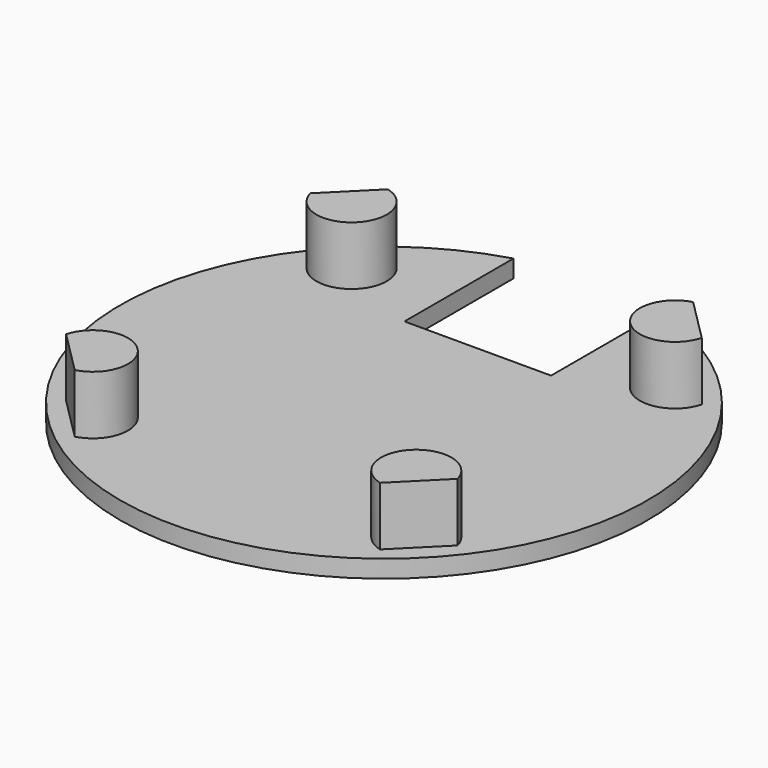
from build123d import *

# Parameters (mm, degrees)
F0_R     = 45
F1_DEPTH = 3
F3_DEPTH = 25
F4_DEPTH = 10
F5_DEPTH = 1


with BuildPart() as f1:
    # F0 (on Top) → F1 (new body)
    with BuildSketch(Plane.XY):
        Circle(F0_R)
    extrude(amount=F1_DEPTH)

    # F2 (on face) → F3 (cut)
    with BuildSketch(Plane.XY.offset(3)):
        with BuildLine():
            Line((12.5, 70), (-12.5, 70))
            Line((-12.5, 70), (-12.5, 43.229041))
            ThreePointArc((-12.5, 43.229041), (0, 45), (12.5, 43.229041))
            Line((12.5, 43.229041), (12.5, 70))
        make_face()
        with BuildLine():
            ThreePointArc((12.5, 43.229041), (0, 45), (-12.5, 43.229041))
            Line((-12.5, 43.229041), (-12.5, 20))
            Line((-12.5, 20), (12.5, 20))
            Line((12.5, 20), (12.5, 43.229041))
        make_face()
    extrude(amount=-F3_DEPTH, mode=Mode.SUBTRACT)

    # F2 (on face) → F5 (cut)
    with BuildSketch(Plane.XY.offset(3)):
        with BuildLine():
            Line((-26.02425, 33.372719), (-33.372719, 26.02425))
            ThreePointArc((-33.372719, 26.02425), (-23.334524, 23.334524), (-26.02425, 33.372719))
        make_face()
        with BuildLine():
            Line((-33.372719, -26.02425), (-26.02425, -33.372719))
            ThreePointArc((-26.02425, -33.372719), (-23.334524, -23.334524), (-33.372719, -26.02425))
        make_face()
        with BuildLine():
            Line((26.02425, -33.372719), (33.372719, -26.02425))
            ThreePointArc((33.372719, -26.02425), (23.334524, -23.334524), (26.02425, -33.372719))
        make_face()
        with BuildLine():
            Line((33.372719, 26.02425), (26.02425, 33.372719))
            ThreePointArc((26.02425, 33.372719), (23.334524, 23.334524), (33.372719, 26.02425))
        make_face()
    extrude(amount=-F5_DEPTH, mode=Mode.SUBTRACT)


with BuildPart() as f4:
    # F2 (on face) → F4 (new body)
    with BuildSketch(Plane.XY.offset(3)):
        with BuildLine():
            Line((-26.02425, 33.372719), (-33.372719, 26.02425))
            ThreePointArc((-33.372719, 26.02425), (-23.334524, 23.334524), (-26.02425, 33.372719))
        make_face()
        with BuildLine():
            Line((33.372719, 26.02425), (26.02425, 33.372719))
            ThreePointArc((26.02425, 33.372719), (23.334524, 23.334524), (33.372719, 26.02425))
        make_face()
        with BuildLine():
            Line((-33.372719, -26.02425), (-26.02425, -33.372719))
            ThreePointArc((-26.02425, -33.372719), (-23.334524, -23.334524), (-33.372719, -26.02425))
        make_face()
        with BuildLine():
            Line((26.02425, -33.372719), (33.372719, -26.02425))
            ThreePointArc((33.372719, -26.02425), (23.334524, -23.334524), (26.02425, -33.372719))
        make_face()
    extrude(amount=F4_DEPTH)


solid = Compound([f1.part, f4.part])
